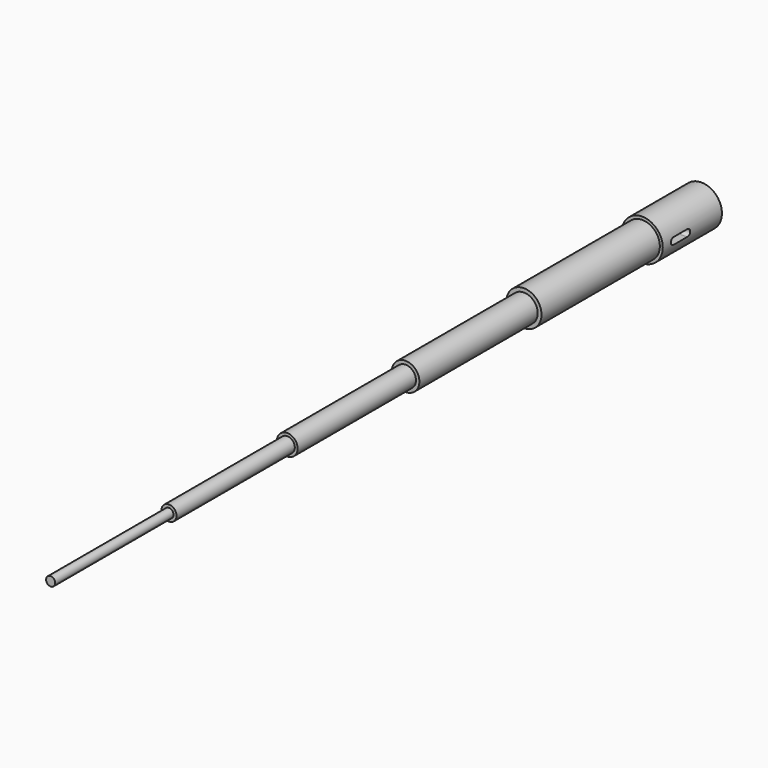
from build123d import *

# Parameters (mm, degrees)
F0_R      = 1.387608
F1_DEPTH  = 5
F2_R      = 1.189862
F3_DEPTH  = 10
F4_R      = 0.933138
F5_DEPTH  = 10
F6_R      = 0.70066
F7_DEPTH  = 10
F8_R      = 0.509978
F9_DEPTH  = 10
F10_R     = 0.309305
F11_DEPTH = 10
F13_DEPTH = 12.5


with BuildPart() as f1:
    # F0 (on Front) → F1 (new body)
    with BuildSketch(Plane.XZ):
        Circle(F0_R)
    extrude(amount=F1_DEPTH)

    # F2 (on face) → F3 (join)
    with BuildSketch(Plane.XZ.offset(5)):
        Circle(F2_R)
    extrude(amount=F3_DEPTH)

    # F4 (on face) → F5 (join)
    with BuildSketch(Plane.XZ.offset(15)):
        Circle(F4_R)
    extrude(amount=F5_DEPTH)

    # F6 (on face) → F7 (join)
    with BuildSketch(Plane.XZ.offset(25)):
        Circle(F6_R)
    extrude(amount=F7_DEPTH)

    # F8 (on face) → F9 (join)
    with BuildSketch(Plane.XZ.offset(35)):
        Circle(F8_R)
    extrude(amount=F9_DEPTH)

    # F10 (on face) → F11 (join)
    with BuildSketch(Plane.XZ.offset(45)):
        Circle(F10_R)
    extrude(amount=F11_DEPTH)

    # F12 (on Right) → F13 (cut, symmetric)
    with BuildSketch(Plane.YZ):
        with BuildLine():
            Line((-2.909436, 0.232579), (-4.072334, 0.232579))
            ThreePointArc((-4.072334, 0.232579), (-4.304913, 0), (-4.072334, -0.232579))
            Line((-4.072334, -0.232579), (-2.909436, -0.232579))
            ThreePointArc((-2.909436, -0.232579), (-2.676857, 0), (-2.909436, 0.232579))
        make_face()
    extrude(amount=F13_DEPTH, both=True, mode=Mode.SUBTRACT)


solid = f1.part
